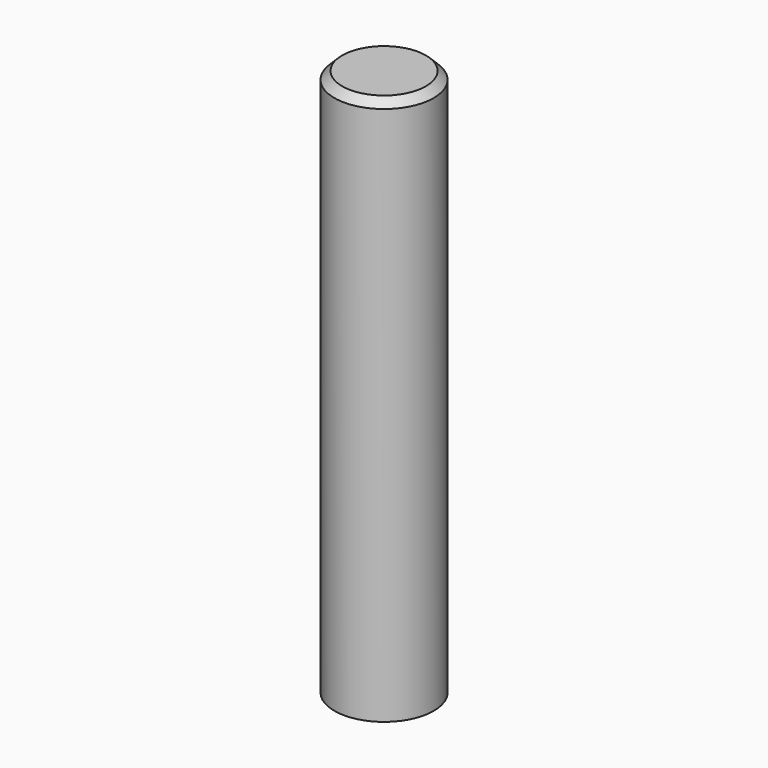
from build123d import *

# Parameters (mm, degrees)
SKETCH_R     = 6.35
PAD_DEPTH    = 70
CHAMFER_SIZE = 1


with BuildPart() as part:
    # Sketch → Pad (new body)
    with BuildSketch(Plane.XY):
        Circle(SKETCH_R)
    extrude(amount=PAD_DEPTH)

    # Chamfer
    chamfer_edges = [part.edges().sort_by_distance(p)[0] for p in [
        (-6.35, 0, 70),
    ]]
    chamfer(chamfer_edges, length=CHAMFER_SIZE)


solid = part.part
